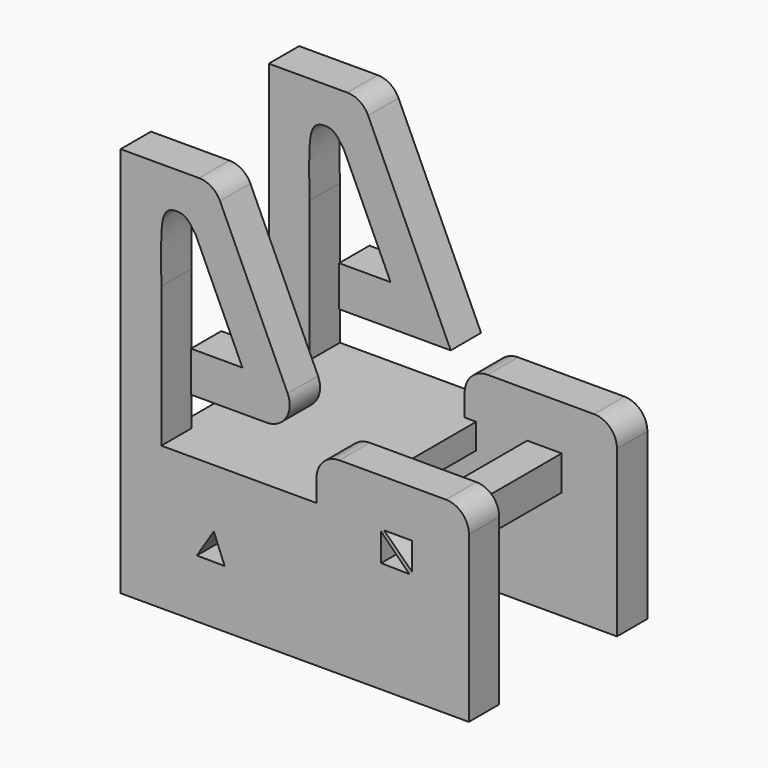
from build123d import *

# Parameters (mm, degrees)
F0_W     = 3
F0_H     = 3
F1_DEPTH = 3.3
F3_DEPTH = 9.7
F4_DEPTH = 25
F5_W     = 15.5733765569
F5_H     = 2.1997606382
F6_DEPTH = 9.7
F8_R     = 2


with BuildPart() as f1:
    # F0 (on Front) → F1 (new body)
    with BuildSketch(Plane.XZ):
        with BuildLine():
            Line((0, 34), (0, 0))
            Line((0, 0), (30.2820131183, 0))
            Line((30.2820131183, 0), (30.2820131183, 16.368644312))
            Line((30.2820131183, 16.368644312), (17.0356687158, 16.368644312))
            Line((17.0356687158, 16.368644312), (17.0356687158, 12.4485930428))
            Line((17.0356687158, 12.4485930428), (18.0357955396, 12.4485930428))
            Line((18.0357955396, 12.4485930428), (18.0357955396, 10.2488324046))
            Line((18.0357955396, 10.2488324046), (2.4624189828, 10.2488324046))
            Line((2.4624189828, 10.2488324046), (2.4624189828, 12.4485930428))
            Line((2.4624189828, 12.4485930428), (3.5426469985, 12.4485930428))
            Line((3.5426469985, 12.4485930428), (3.5426469985, 24.6681645513))
            add(Edge.make_bspline(
                [(6.5175484558, 29.5915287649), (6.2907197581, 29.9241725963), (5.8790854313, 30.5278335133), (5.1978575268, 30.8967943754), (3.7389888493, 30.7860278706), (3.4619052088, 28.4189645391), (3.5129095402, 26.0495961355), (3.5426469985, 24.6681645513)],
                knots=[0, 0, 0, 0, 0.1657910439, 0.3008670659, 0.4665066802, 0.6889531738, 1, 1, 1, 1], degree=3))
            Line((6.5175484558, 29.5915287649), (10.5911474675, 20.7152888179))
            Line((10.5911474675, 20.7152888179), (6.1143967323, 20.7152888179))
            Line((6.1143967323, 20.7152888179), (6.1143967323, 17.1928294003))
            Line((6.1143967323, 17.1928294003), (15.821730718, 17.1928294003))
            Line((15.821730718, 17.1928294003), (8.1083662808, 34))
            Line((8.1083662808, 34), (0, 34))
        make_face()
        with Locations((23.9732756615, 10.9485930428)):
            Rectangle(F0_W, F0_H, mode=Mode.SUBTRACT)
    extrude(amount=F1_DEPTH)

    # F2 (on face) → F3 (join)
    with BuildSketch(Plane(origin=(0, 0, 0), x_dir=(-1, 0, 0), z_dir=(0, 1, 0))):
        Polygon((-8.1085339189, 7.924452424), (-9.3574654311, 4.8816055059), (-6.0858423822, 4.7413739376), align=None)
        Polygon((-6.6248354992, 5.045762931), (-8.7793627754, 5.0320993178), (-9.0411501005, 5.0320993178), (-8.1026144326, 7.3713208549), align=None, mode=Mode.SUBTRACT)
        Polygon((-25.4732756615, 12.4485930428), (-25.4732756615, 9.4485930428), (-22.4732756615, 12.4485930428), align=None)
        Polygon((-22.9099839926, 12.2652184218), (-25.3357663751, 9.8863113672), (-25.3357663751, 12.2652184218), align=None, mode=Mode.SUBTRACT)
        Polygon((-22.4732756615, 12.4485930428), (-25.4732756615, 9.4485930428), (-22.4732756615, 9.4485930428), align=None)
        Polygon((-22.6521715522, 9.6753742546), (-25.1131094992, 9.6284989268), (-22.6521715522, 12.0894368738), align=None, mode=Mode.SUBTRACT)
    extrude(amount=-F3_DEPTH)

    # F2 (on face) → F4 (cut)
    with BuildSketch(Plane(origin=(0, 0, 0), x_dir=(-1, 0, 0), z_dir=(0, 1, 0))):
        Polygon((-9.0411501005, 5.0320993178), (-8.7793627754, 5.0320993178), (-6.6248354992, 5.045762931), (-8.1026144326, 7.3713208549), align=None)
    extrude(amount=-F4_DEPTH, mode=Mode.SUBTRACT)

    # F5 (on face) → F6 (join)
    with BuildSketch(Plane(origin=(0, 0, 0), x_dir=(-1, 0, 0), z_dir=(0, 1, 0))):
        with Locations((-10.2491072612, 11.3487127237)):
            Rectangle(F5_W, F5_H)
    extrude(amount=-F6_DEPTH)

    # F7: F1 across face


with BuildPart() as f1_1:
    add(f1.part)
    add(f1.part.mirror(Plane(origin=(10.2491072612, -9.7, 11.3487127237), x_dir=(-1, 0, 0), z_dir=(0, -1, 0))))

    # F8
    f8_edges = [f1_1.edges().sort_by_distance(p)[0] for p in [
        (30.282013, -17.75, 16.368644),
        (30.282013, -1.65, 16.368644),
        (8.108366, -17.75, 34),
        (8.108366, -1.65, 34),
        (15.821731, -17.75, 17.192829),
        (17.035669, -17.75, 16.368644),
        (17.035669, -1.65, 16.368644),
    ]]
    fillet(f8_edges, radius=F8_R)


solid = f1_1.part
